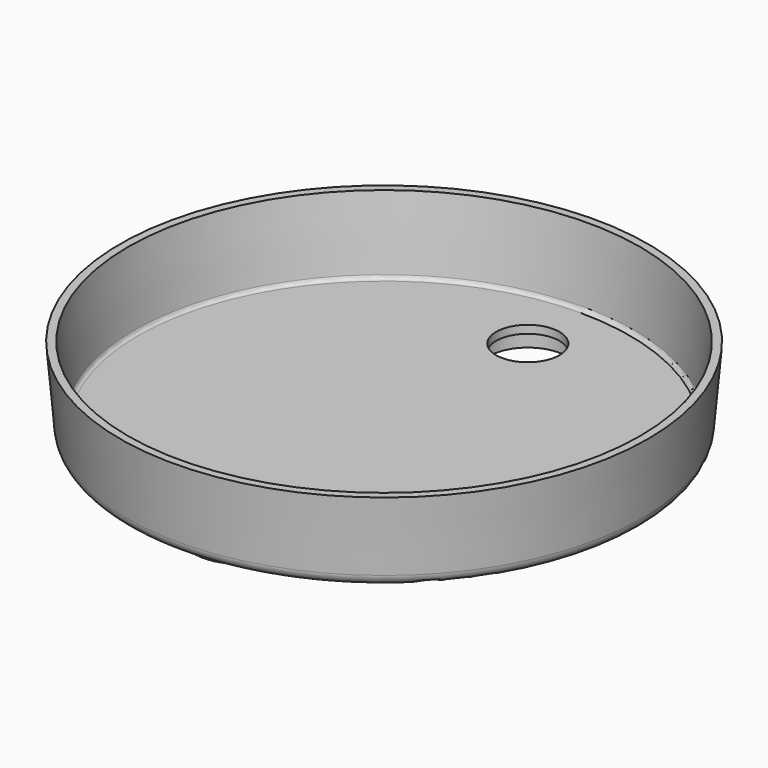
from build123d import *

# Parameters (mm, degrees)
F2_R     = 6.35
F3_DEPTH = 1.5885
F4_R     = 9.36625
F4_R_2   = 7.77875
F5_DEPTH = 3.175


with BuildPart() as f1:
    # F0 (on Front) → F1 (revolve)
    with BuildSketch(Plane.XZ):
        with BuildLine():
            Line((0, 1.5875), (0, 0))
            Line((0, 0), (49.266598, 0))
            ThreePointArc((49.266598, 0), (50.875347, 0.625608), (51.638787, 2.17371))
            Line((51.638787, 2.17371), (52.89983, 16.5875))
            Line((52.89983, 16.5875), (51.31233, 16.5875))
            Line((51.31233, 16.5875), (50.063392, 2.31207))
            ThreePointArc((50.063392, 2.31207), (49.808912, 1.796036), (49.272662, 1.5875))
            Line((49.272662, 1.5875), (0, 1.5875))
        make_face()
    revolve(axis=Axis((0, 0, 0.79375), (0, 0, -1)))

    # F2 (on face) → F3 (cut, through all)
    with BuildSketch(Plane.XY.offset(1.5875)):
        with Locations((0, 36)):
            Circle(F2_R)
        with Locations((0, -36)):
            Circle(F2_R)
    extrude(amount=-F3_DEPTH, mode=Mode.SUBTRACT)

    # F4 (on face) → F5 (join)
    with BuildSketch(Plane(origin=(0, 0, 0), x_dir=(1, 0, 0), z_dir=(0, 0, -1))):
        with Locations((0, -36)):
            Circle(F4_R)
        with Locations((0, -36)):
            Circle(F4_R_2, mode=Mode.SUBTRACT)
        with Locations((0, 36)):
            Circle(F4_R)
        with Locations((0, 36)):
            Circle(F4_R_2, mode=Mode.SUBTRACT)
    extrude(amount=F5_DEPTH)


solid = f1.part
